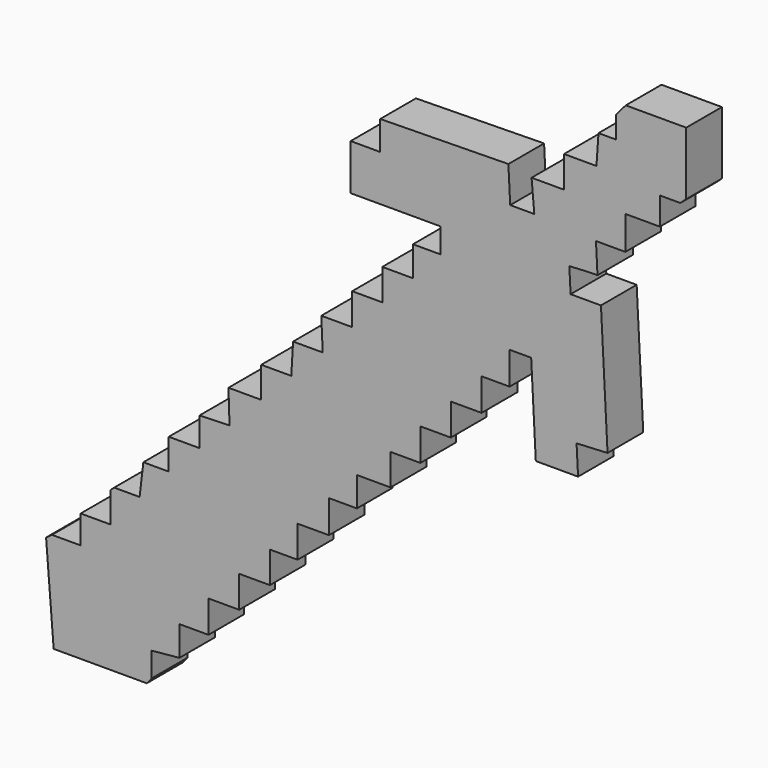
from build123d import *

# Parameters (mm, degrees)
F1_DEPTH = 6.604


with BuildPart() as f1:
    # F0 (on Front) → F1 (new body)
    with BuildSketch(Plane.XZ):
        Polygon((-35.891015, -44.431213), (-34.771152, -58.57319), (-20.996537, -58.57319), (-20.263845, -57.693958), (-20.263845, -54.079343), (-16.160768, -53.688575), (-16.160768, -49.292423), (-11.862307, -49.292423), (-11.862307, -44.554345), (-7.319614, -44.554345), (-7.319614, -39.865114), (-2.776924, -39.865114), (-2.776924, -35.224728), (1.326155, -35.224728), (1.326155, -30.522292), (5.955515, -30.522292), (5.955515, -25.686769), (10.100249, -25.686769), (10.100249, -21.334799), (15.07393, -21.334799), (15.07393, -16.706513), (19.494979, -16.706513), (19.494979, -11.940069), (23.985106, -11.940069), (23.985106, -7.242705), (28.544314, -7.242705), (28.544314, -2.476261), (32.689046, -2.476261), (32.689046, 1.87571), (32.689046, 2.326632), (35.878122, 2.326632), (36.561966, -10.910676), (42.815927, -10.910676), (42.595262, -6.639218), (47.17804, -6.40247), (46.201719, 12.496377), (41.710667, 12.496377), (41.524491, 16.100227), (44.593396, 16.258767), (45.690965, 16.258767), (45.464507, 20.642363), (49.292434, 20.642363), (49.815226, 20.642363), (49.815226, 25.59156), (54.926988, 25.59156), (54.926988, 29.657733), (57.947576, 29.657733), (58.816932, 30.441023), (58.816932, 39.751779), (49.874112, 39.751779), (48.417136, 38.072195), (48.417136, 34.82151), (45.839608, 34.82151), (45.536865, 30.441023), (40.738147, 30.441023), (40.738147, 25.791233), (35.940185, 25.791233), (36.34081, 21.193173), (32.775085, 21.193173), (32.507643, 26.459059), (13.546095, 26.162239), (13.546095, 21.860547), (9.172283, 21.860547), (9.172283, 15.070072), (22.475535, 15.070072), (22.475535, 11.422014), (18.394226, 11.422014), (18.394226, 6.991952), (13.850187, 6.991952), (13.850187, 2.378245), (9.392416, 2.378245), (9.392416, -2.300778), (4.822523, -2.300778), (5.038401, -7.019591), (0.653542, -7.019591), (0.386236, -11.579004), (-4.058064, -11.579004), (-4.058064, -16.147088), (-8.907205, -16.147088), (-8.749501, -21.012075), (-13.202594, -21.156428), (-13.202594, -25.405735), (-17.742191, -25.405735), (-17.742191, -29.94461), (-21.498483, -29.94461), (-22.055859, -34.651618), (-25.815729, -34.651618), (-26.376544, -35.155315), (-26.376544, -39.635949), (-30.201711, -39.635949), (-30.775476, -39.635949), (-30.775476, -43.797955), (-35.018407, -43.797955), align=None)
    extrude(amount=F1_DEPTH)


solid = f1.part
